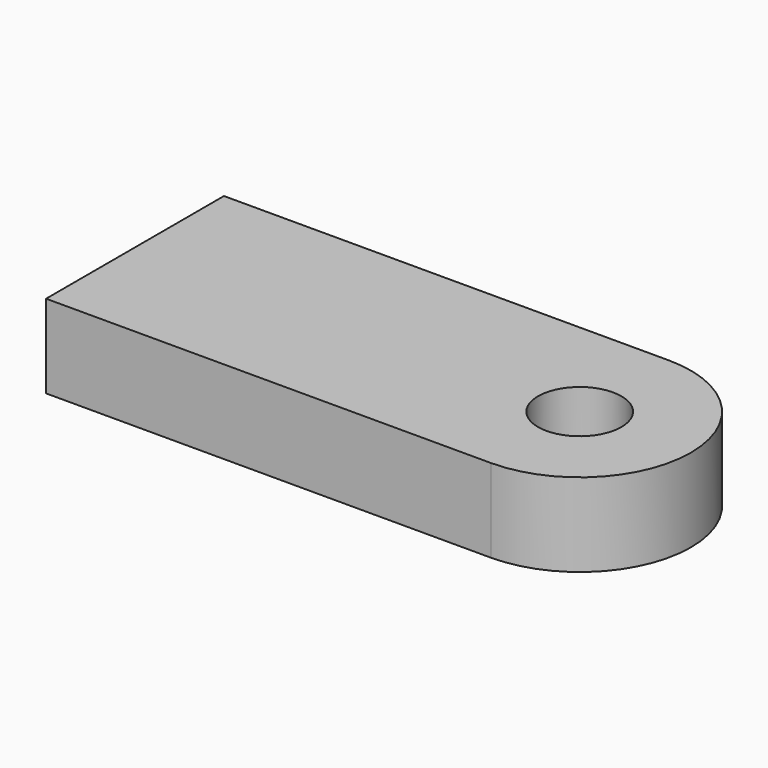
from build123d import *

# Parameters (mm, degrees)
F0_R     = 9.525
F1_DEPTH = 19.05


with BuildPart() as f1:
    # F0 (on Top) → F1 (new body)
    with BuildSketch(Plane.XY):
        with BuildLine():
            Line((-101.6, -24.937603), (-101.6, -75.737603))
            Line((-101.6, -75.737603), (0, -75.737603))
            ThreePointArc((0, -75.737603), (25.4, -50.337603), (0, -24.937603))
            Line((0, -24.937603), (-101.6, -24.937603))
        make_face()
        with Locations((0, -50.337603)):
            Circle(F0_R, mode=Mode.SUBTRACT)
    extrude(amount=F1_DEPTH)


solid = f1.part
